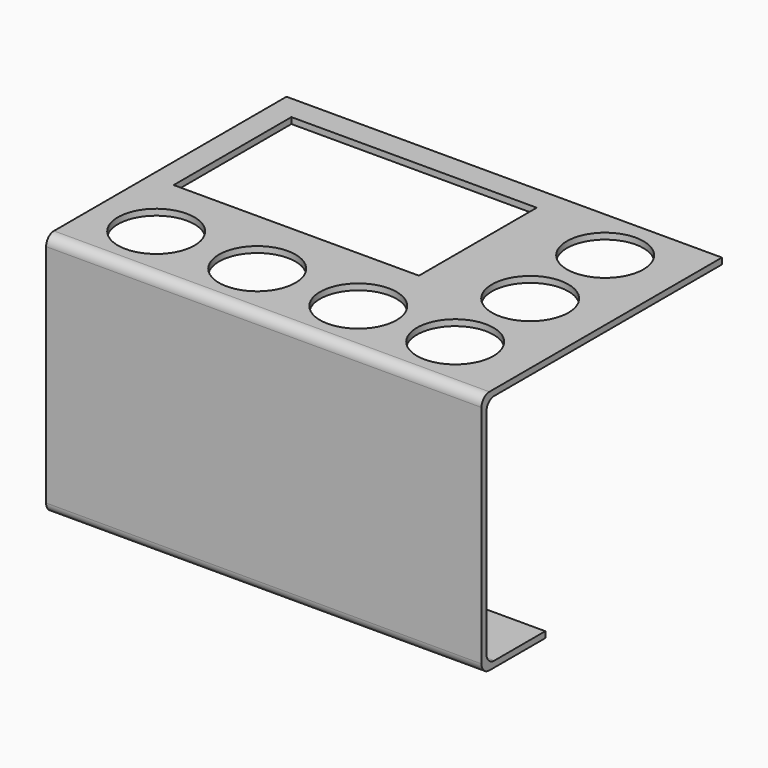
from build123d import *

# Parameters (mm, degrees)
F0_W      = 112.7125
F0_H      = 76.2
F1_DEPTH  = 1.5875
F2_W      = 63.5
F2_H      = 38.1
F2_R      = 9.906
F3_DEPTH  = 1.5885
F4_W      = 112.7125
F4_H      = 1.5875
F5_DEPTH  = 63.5
F6_W      = 112.7125
F6_H      = 1.5875
F7_DEPTH  = 19.05
F8_R      = 2.54
F9_R      = 3.776515
F10_DEPTH = 1.5885


with BuildPart() as f1:
    # F0 (on Top) → F1 (new body)
    with BuildSketch(Plane.XY):
        with Locations((0.00635, 0)):
            Rectangle(F0_W, F0_H)
    extrude(amount=F1_DEPTH)

    # F2 (on face) → F3 (cut, through all)
    with BuildSketch(Plane.XY.offset(1.5875)):
        with Locations((-18.2499, 12.7)):
            Rectangle(F2_W, F2_H)
        with Locations((37.3126, 24.13)):
            Circle(F2_R)
        with Locations((37.3126, -0.127)):
            Circle(F2_R)
        with Locations((37.3126, -24.384)):
            Circle(F2_R)
        with Locations((-40.0939, -24.384)):
            Circle(F2_R)
        with Locations((-13.9319, -24.384)):
            Circle(F2_R)
        with Locations((12.2301, -24.384)):
            Circle(F2_R)
    extrude(amount=-F3_DEPTH, mode=Mode.SUBTRACT)

    # F4 (on face) → F5 (join)
    with BuildSketch(Plane.XY.offset(1.5875)):
        with Locations((0.00635, -38.89375)):
            Rectangle(F4_W, F4_H)
    extrude(amount=-F5_DEPTH)

    # F6 (on face) → F7 (join)
    with BuildSketch(Plane(origin=(0, -38.1, 0), x_dir=(-1, 0, 0), z_dir=(0, 1, 0))):
        with Locations((-0.00635, -61.11875)):
            Rectangle(F6_W, F6_H)
    extrude(amount=F7_DEPTH)

    # F8
    f8_edges = [f1.edges().sort_by_distance(p)[0] for p in [
        (0.00635, -39.6875, 1.5875),
        (0.00635, -38.1, 0),
        (0.00635, -39.6875, -61.9125),
        (0.00635, -38.1, -60.325),
    ]]
    fillet(f8_edges, radius=F8_R)

    # F9 (on face) → F10 (cut, through all)
    with BuildSketch(Plane.XY.offset(-60.325)):
        with Locations((-39.533325, -27.305)):
            Circle(F9_R)
        with Locations((-14.133325, -27.305)):
            Circle(F9_R)
        with Locations((11.266675, -27.305)):
            Circle(F9_R)
        with Locations((36.666675, -27.305)):
            Circle(F9_R)
    extrude(amount=-F10_DEPTH, mode=Mode.SUBTRACT)


solid = f1.part
